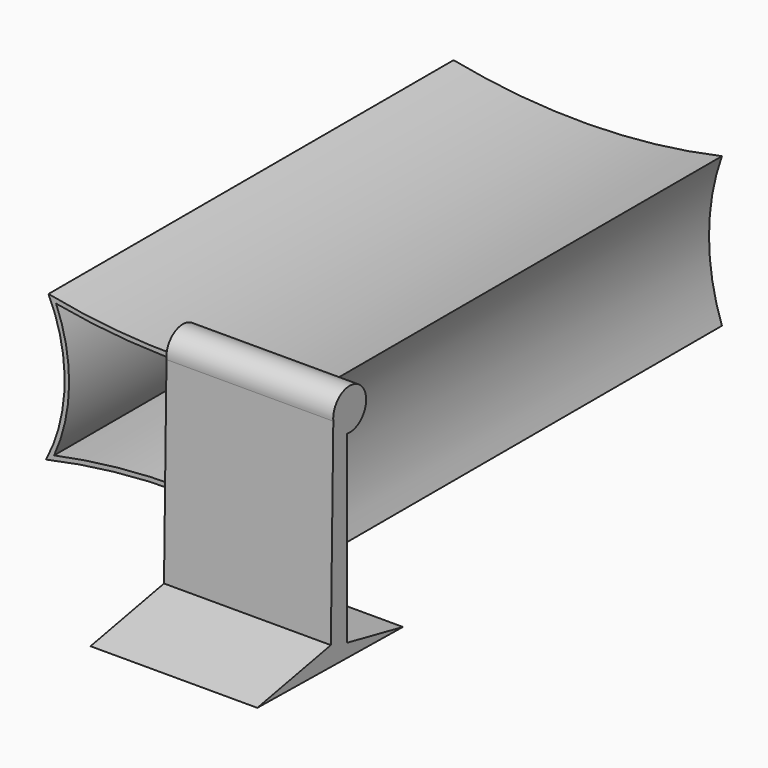
from build123d import *

# Parameters (mm, degrees)
F1_DEPTH = 287.528
F2_T     = -2.54
F4_DEPTH = 94.742


with BuildPart() as f1:
    # F0 (on Front) → F1 (new body)
    with BuildSketch(Plane.XZ):
        with BuildLine():
            ThreePointArc((76.102309, 51.776927), (-0.016463, 43.075618), (-76.297693, 50.213847))
            ThreePointArc((-76.297693, 50.213847), (-67.140959, 8.435223), (-77.665389, -33.020001))
            ThreePointArc((-77.665389, -33.020001), (-0.78154, -24.546425), (76.102309, -33.020001))
            ThreePointArc((76.102309, -33.020001), (68.77563, 9.378463), (76.102309, 51.776927))
        make_face()
    extrude(amount=-F1_DEPTH)

    # F2
    f2_openings = [f1.faces().sort_by_distance(p)[0] for p in [
        (0.781643, 0, 9.143892),
    ]]
    offset(amount=F2_T, openings=f2_openings)


with BuildPart() as f4:
    # F3 (on Right) → F4 (new body)
    with BuildSketch(Plane.YZ):
        with BuildLine():
            Line((-1.856153, -67.798465), (-1.856153, 36.717418))
            ThreePointArc((-1.856153, 36.717418), (8.448764, 56.340533), (-11.613795, 46.91972))
            Line((-11.613795, 46.91972), (-13.383849, -64.281538))
            Line((-13.383849, -64.281538), (-65.551534, -74.441537))
            Line((-65.551534, -74.441537), (37.806924, -76.004617))
            Line((37.806924, -76.004617), (-1.856153, -67.798465))
        make_face()
    extrude(amount=F4_DEPTH)


solid = Compound([f1.part, f4.part])
